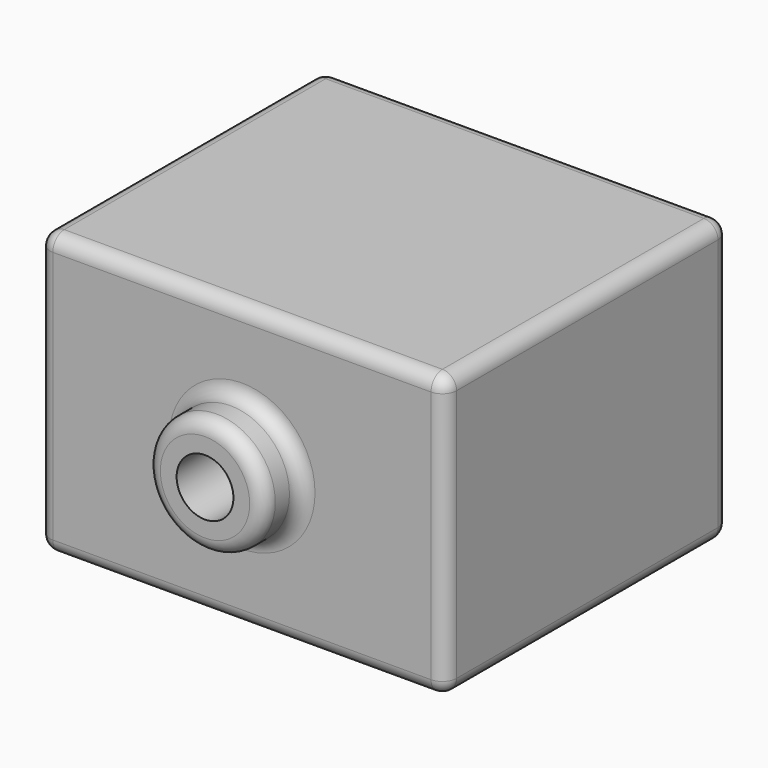
from build123d import *

# Parameters (mm, degrees)
F0_W     = 145.3911811113
F0_H     = 100.7209792733
F2_DEPTH = 63.5
F1_R     = 21.0519907021
F1_R_2   = 10.1625017611
F3_DEPTH = 80.01
F4_DEPTH = 127
F5_R     = 5.08


with BuildPart() as f2:
    # F0 (on Front) → F2 (new body, symmetric)
    with BuildSketch(Plane.XZ):
        Rectangle(F0_W, F0_H)
    extrude(amount=F2_DEPTH, both=True)

    # F1 (on face) → F3 (join)
    with BuildSketch(Plane.XZ):
        Circle(F1_R)
        Circle(F1_R_2, mode=Mode.SUBTRACT)
    extrude(amount=F3_DEPTH)

    # F4 (cut): a face of the model
    f4_faces = [f2.faces().sort_by_distance(p)[0] for p in [
        (0, -63.5, 0),
    ]]
    extrude(f4_faces, amount=-F4_DEPTH, mode=Mode.SUBTRACT)

    # F5
    f5_edges = [f2.edges().sort_by_distance(p)[0] for p in [
        (0, -63.5, 50.36049),
        (-72.695591, -63.5, 0),
        (0, -63.5, -50.36049),
        (72.695591, -63.5, 0),
        (-21.051991, -63.5, 0),
        (0, 63.5, 50.36049),
        (-72.695591, 0, 50.36049),
        (72.695591, 0, 50.36049),
        (-72.695591, 63.5, 0),
        (-72.695591, 0, -50.36049),
        (72.695591, 63.5, 0),
        (72.695591, 0, -50.36049),
        (-21.051991, -80.01, 0),
        (0, 63.5, -50.36049),
        (-10.162502, 63.5, 0),
    ]]
    fillet(f5_edges, radius=F5_R)


solid = f2.part
